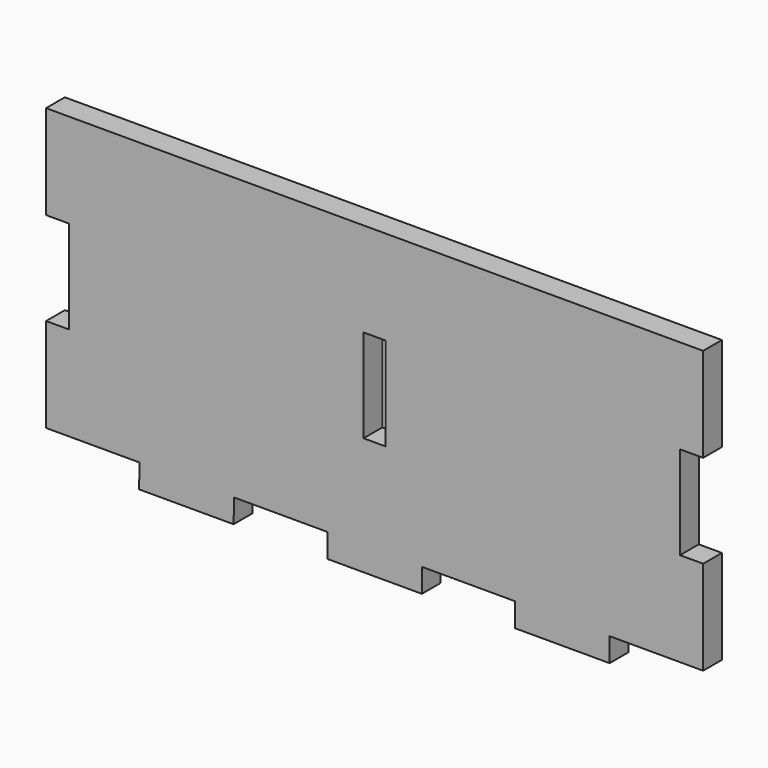
from build123d import *

# Parameters (mm, degrees)
F0_W     = 5.9944
F0_H     = 25.2222
F0_W_2   = 25.5778
F0_H_2   = 6.4389
F1_DEPTH = 6.35


with BuildPart() as f1:
    # F0 (on Front) → F1 (new body)
    with BuildSketch(Plane.XZ):
        Polygon((0, 25.4889), (0, 0), (25.3111, 0), (50.8889, 0), (76.1111, 0), (101.6889, 0), (126.9111, 0), (152.4889, 0), (177.8, 0), (177.8, 25.4889), (171.5389, 25.4889), (171.5389, 50.7111), (177.8, 50.7111), (177.8, 76.2), (0, 76.2), (0, 50.7111), (6.2611, 50.7111), (6.2611, 25.4889), align=None)
        with Locations((88.9, 38.1)):
            Rectangle(F0_W, F0_H, mode=Mode.SUBTRACT)
        Polygon((50.8889, 0), (25.3111, 0), (25.151725, -6.436927), (50.729525, -6.436927), align=None)
        with Locations((88.9, -3.21945)):
            Rectangle(F0_W_2, F0_H_2)
        with Locations((139.7, -3.21945)):
            Rectangle(F0_W_2, F0_H_2)
    extrude(amount=F1_DEPTH)


solid = f1.part
